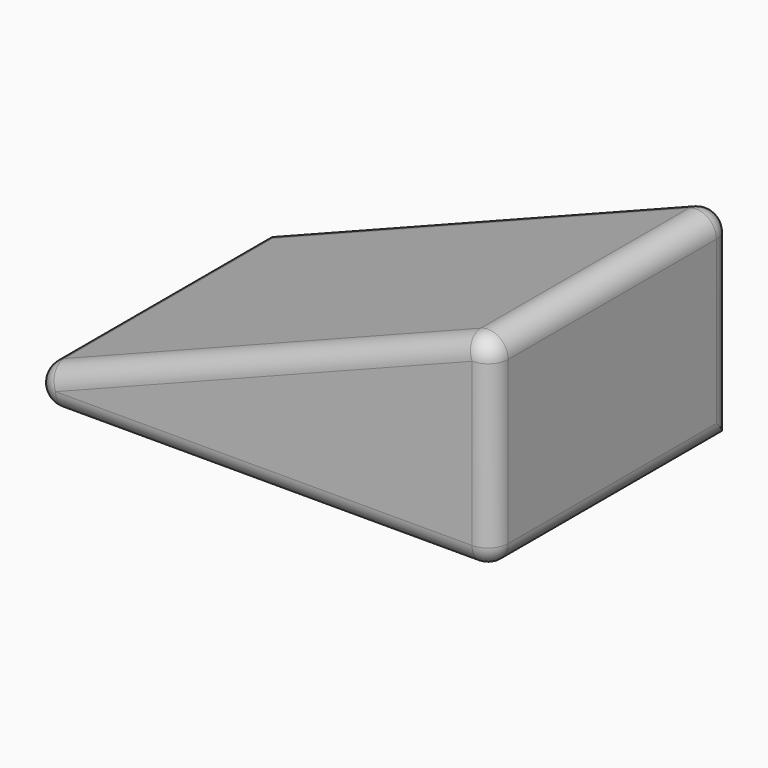
from build123d import *

# Parameters (mm, degrees)
F1_DEPTH = 76.2
F2_R     = 5.08


with BuildPart() as f1:
    # F0 (on Front) → F1 (new body)
    with BuildSketch(Plane.XZ):
        Polygon((-68.897501, -26.828751), (68.897501, -26.828751), (68.897501, 26.828751), align=None)
    extrude(amount=F1_DEPTH)

    # F2
    f2_edges = [f1.edges().sort_by_distance(p)[0] for p in [
        (0, -76.2, 0),
        (0, 0, 0),
        (0, -76.2, -26.828751),
        (-68.897501, -38.1, -26.828751),
        (68.897501, -76.2, 0),
        (68.897501, 0, 0),
        (68.897501, -38.1, -26.828751),
        (68.897501, -38.1, 26.828751),
    ]]
    fillet(f2_edges, radius=F2_R)


solid = f1.part
